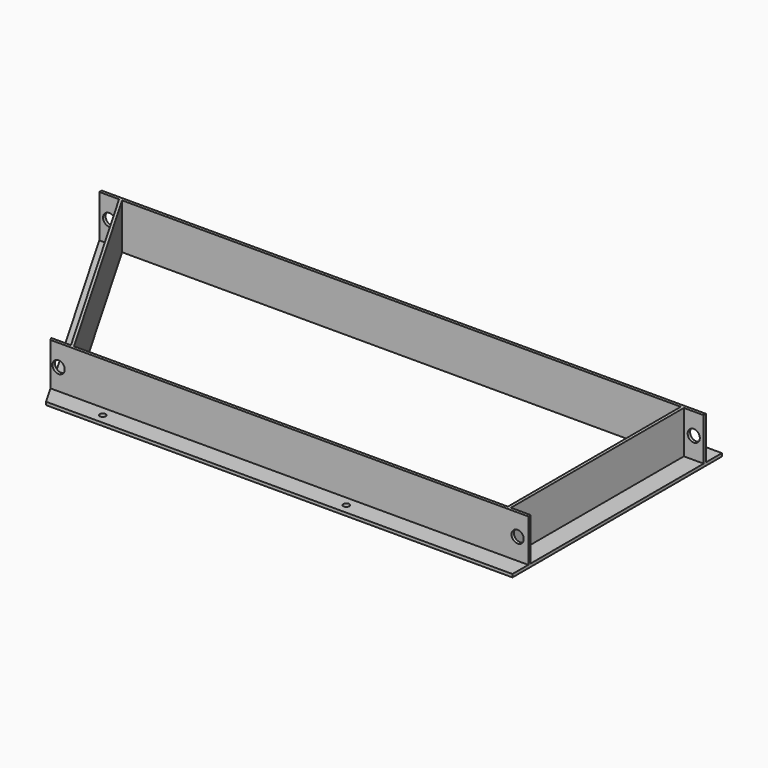
from build123d import *

# Parameters (mm, degrees)
F1_DEPTH       = 1985
F3_DEPTH       = 710
F5_DEPTH       = 1575
F7_DEPTH       = 10
F9_DEPTH       = 140
F10_R          = 10
F11_DEPTH      = 25
F12_R          = 20
F13_DEPTH      = 15
F14_R          = 20
F15_DEPTH      = 25
F17_DEPTH      = 177
F17_DEPTH_BACK = 25


with BuildPart() as f1:
    # F0 (on Right) → F1 (new body)
    with BuildSketch(Plane.YZ):
        Polygon((0, 10), (0, 0), (10, 0), (75, 0), (75, 10), (10, 10), (10, 150), (0, 150), align=None)
    extrude(amount=F1_DEPTH)

    # F2 (on face) → F3 (join)
    with BuildSketch(Plane.XZ):
        Polygon((1910, 10), (1910, 0), (1920, 0), (1985, 0), (1985, 10), (1920, 10), (1920, 150), (1910, 150), align=None)
    extrude(amount=F3_DEPTH)



with BuildPart() as f5:
    # F4 (on face) → F5 (new body)
    with BuildSketch(Plane.YZ.offset(1985)):
        Polygon((-720, 150), (-720, 10), (-785, 10), (-785, 0), (-720, 0), (-710, 0), (-710, 10), (-710, 150), align=None)
    extrude(amount=-F5_DEPTH)


with BuildPart() as f7:
    # F6 (on Top) → F7 (new body)
    with BuildSketch(Plane.XY):
        Polygon((485, -710), (75, 0), (0, 0), (410, -710), align=None)
    extrude(amount=F7_DEPTH)


with BuildPart() as f1_1:
    add(f1.part)

    add(f5.part)  # F9 merges F5

    add(f7.part)  # F9 merges F7
    # F8 (on face) → F9 (join)
    with BuildSketch(Plane.XY.offset(10)):
        Polygon((485, -710), (75, 0), (65, 0), (475, -710), align=None)
    extrude(amount=F9_DEPTH)

    # F10 (on face) → F11 (cut)
    with BuildSketch(Plane.XY.offset(10)):
        with Locations((613.31, -752.5)):
            Circle(F10_R)
        with Locations((1413.31, -752.5)):
            Circle(F10_R)
        with Locations((1788, 42.5)):
            Circle(F10_R)
        with Locations((188, 42.5)):
            Circle(F10_R)
    extrude(amount=-F11_DEPTH, mode=Mode.SUBTRACT)

    # F12 (on face) → F13 (cut)
    with BuildSketch(Plane.XZ.offset(720)):
        with Locations((442.5, 80)):
            Circle(F12_R)
        with Locations((1950, 80)):
            Circle(F12_R)
    extrude(amount=-F13_DEPTH, mode=Mode.SUBTRACT)

    # F14 (on face) → F15 (cut)
    with BuildSketch(Plane(origin=(0, 10, 0), x_dir=(-1, 0, 0), z_dir=(0, 1, 0))):
        with Locations((-1952.5, 80)):
            Circle(F14_R)
        with Locations((-32.5, 80)):
            Circle(F14_R)
    extrude(amount=-F15_DEPTH, mode=Mode.SUBTRACT)

    # F16 (on face) → F17 (cut, two sides)
    with BuildSketch(Plane.XY.offset(10)) as f17_sk:
        Polygon((453.309859, -785), (410, -710), (410, -785), align=None)
    extrude(amount=F17_DEPTH, mode=Mode.SUBTRACT)
    extrude(f17_sk.sketch, amount=-F17_DEPTH_BACK, mode=Mode.SUBTRACT)


solid = f1_1.part
